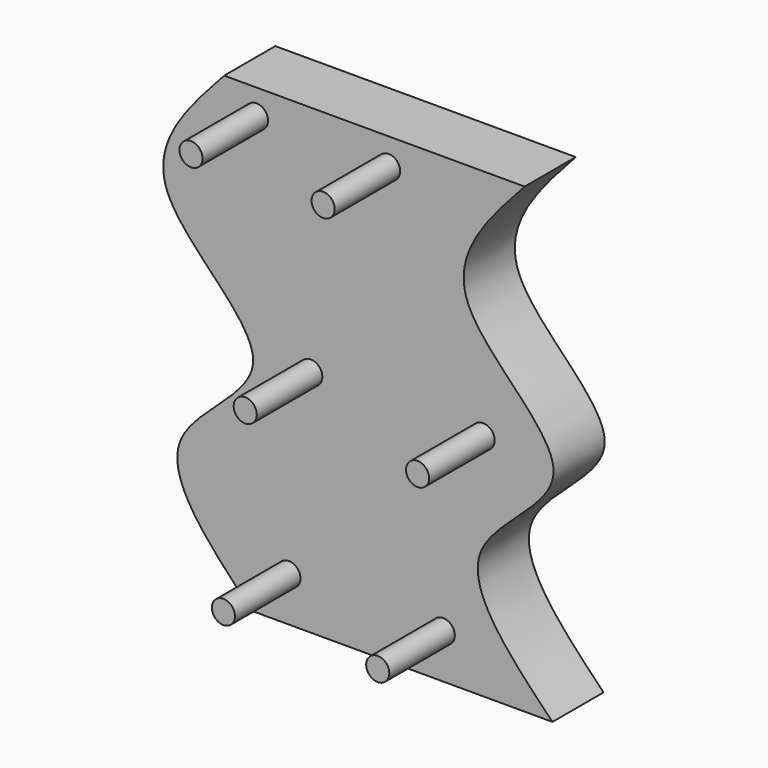
from build123d import *

# Parameters (mm, degrees)
F1_DEPTH = 70.231
F2_R     = 12.7
F3_DEPTH = 90


with BuildPart() as f1:
    # F0 (on Front) → F1 (new body)
    with BuildSketch(Plane.XZ):
        with BuildLine():
            Line((251.2670120408, 247.751693517), (-78.9329879592, 247.751693517))
            add(Edge.make_bspline(
                [(-78.9329879592, 247.751693517), (-118.4500863393, 204.8103487339), (-200.3621854776, 115.8003800066), (25.1837263388, -20.5192498905), (-185.5970216319, -118.7000407816), (-95.5666307907, -211.5703613415), (-48.3772337904, -260.248306483)],
                knots=[0, 0, 0, 0, 0.2454169643, 0.5087068519, 0.742488873, 1, 1, 1, 1], degree=3))
            Line((-48.3772337904, -260.248306483), (281.8227662096, -260.248306483))
            add(Edge.make_bspline(
                [(251.2670120408, 247.751693517), (211.7499136607, 204.8103487339), (129.8378145224, 115.8003800066), (355.3837263388, -20.5192498905), (144.6029783681, -118.7000407816), (234.6333692093, -211.5703613415), (281.8227662096, -260.248306483)],
                knots=[0, 0, 0, 0, 0.2454169643, 0.5087068519, 0.742488873, 1, 1, 1, 1], degree=3))
        make_face()
    extrude(amount=F1_DEPTH)

    # F2 (on face) → F3 (join)
    with BuildSketch(Plane.XZ.offset(70.231)):
        with Locations((-43.4053327055, 219.811693517)):
            Circle(F2_R)
        with BuildLine():
            ThreePointArc((192.8783785065, -8.5931712189), (205.5783785065, -21.2931712189), (218.2783785065, -8.5931712189))
            ThreePointArc((218.2783785065, -8.5931712189), (205.5783785065, 4.1068287811), (192.8783785065, -8.5931712189))
        make_face()
        with Locations((16.2040890428, -8.5931712189)):
            Circle(F2_R)
        with Locations((101.7882398762, 218.055621855)):
            Circle(F2_R)
        with Locations((161.8187696549, -211.4666253835)):
            Circle(F2_R)
        with Locations((-7.777258361, -211.4231900456)):
            Circle(F2_R)
    extrude(amount=F3_DEPTH)


solid = f1.part
